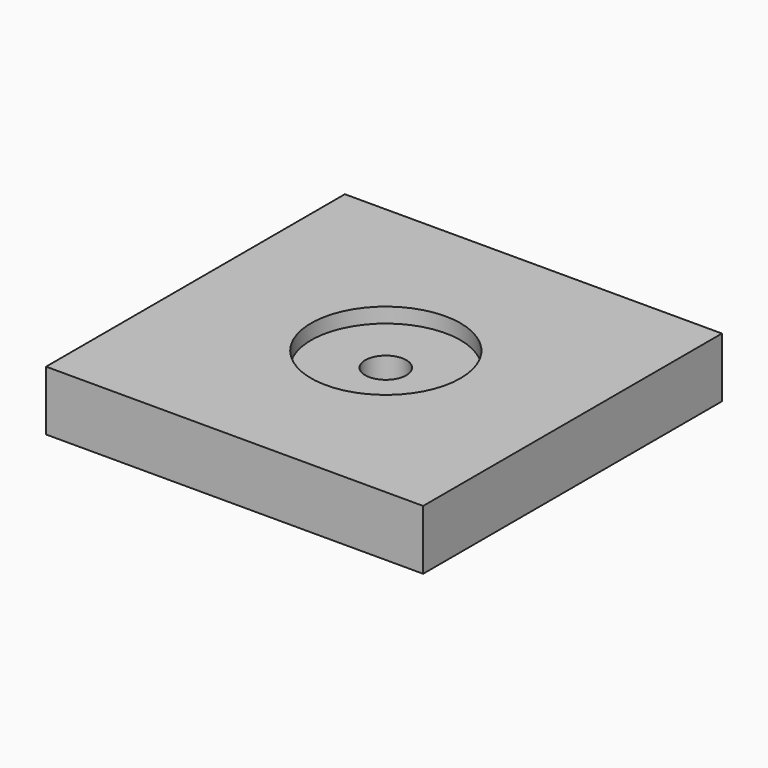
from build123d import *

# Parameters (mm, degrees)
F0_W     = 50.484959
F0_H     = 50
F1_DEPTH = 8
F2_R     = 10
F3_DEPTH = 2
F4_R     = 2.75
F5_DEPTH = 6.001


with BuildPart() as f1:
    # F0 (on Top) → F1 (new body)
    with BuildSketch(Plane.XY):
        with Locations((-0.242479, 0)):
            Rectangle(F0_W, F0_H)
    extrude(amount=-F1_DEPTH)

    # F2 (on Top) → F3 (cut)
    with BuildSketch(Plane.XY):
        Circle(F2_R)
    extrude(amount=-F3_DEPTH, mode=Mode.SUBTRACT)

    # F4 (on face) → F5 (cut, through all)
    with BuildSketch(Plane.XY.offset(-2)):
        Circle(F4_R)
    extrude(amount=-F5_DEPTH, mode=Mode.SUBTRACT)


solid = f1.part
